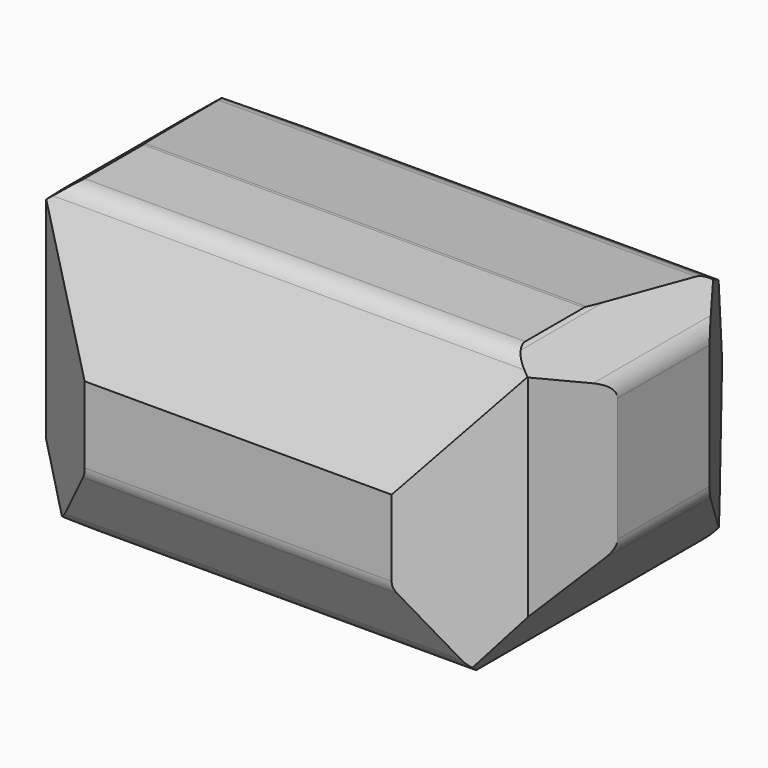
from build123d import *

# Parameters (mm, degrees)
F2_DEPTH = 431.8
F3_DEPTH = 300
F5_DEPTH = 335.3365405362


with BuildPart() as f2:
    # F0 (on Front) → F2 (new body)
    with BuildSketch(Plane.XZ):
        with BuildLine():
            ThreePointArc((-215.0837094315, 28.1867968677), (-206.1825035103, 20.9247569252), (-194.9923256736, 18.3269480476))
            Line((-194.9923256736, 18.3269480476), (194.9923256736, 18.3269480476))
            ThreePointArc((194.9923256736, 18.3269480476), (206.1825035102, 20.9247569252), (215.0837094315, 28.1867968677))
            Line((215.0837094315, 28.1867968677), (291.6494649656, 127.1763085747))
            ThreePointArc((291.6494649656, 127.1763085747), (295.5943158073, 134.5055264169), (296.9580812077, 142.7164597545))
            Line((296.9580812077, 142.7164597545), (296.9580812077, 277.8479019979))
            ThreePointArc((296.9580812077, 277.8479019979), (294.4473832424, 288.8587989806), (287.4116361398, 297.6929214238))
            Line((287.4116361398, 297.6929214238), (243.5007055453, 332.7719674735))
            ThreePointArc((243.5007055453, 332.7719674735), (236.0464513753, 336.8980086564), (227.6471506132, 338.3269480476))
            Line((227.6471506132, 338.3269480476), (-227.6471506132, 338.3269480476))
            ThreePointArc((-227.6471506132, 338.3269480476), (-236.0464513753, 336.8980086564), (-243.5007055453, 332.7719674735))
            Line((-243.5007055453, 332.7719674735), (-283.4954737244, 300.8214190404))
            ThreePointArc((-283.4954737244, 300.8214190404), (-290.531220827, 291.9872965972), (-293.0419187923, 280.9763996145))
            Line((-293.0419187923, 280.9763996145), (-293.0419187923, 128.9765693233))
            Line((-293.0419187923, 128.9765693233), (-215.0837094315, 28.1867968677))
        make_face()
    extrude(amount=-F2_DEPTH)

    # F1 (on Right) → F3 (intersect, symmetric)
    with BuildSketch(Plane.YZ):
        with BuildLine():
            Line((80.3171636678, 15.3355404362), (122.5911080837, 15.3355404362))
            Line((122.5911080837, 15.3355404362), (341.5976184148, 15.3355404362))
            ThreePointArc((341.5976184148, 15.3355404362), (372.7018912202, 25.9713248551), (390.7818199286, 53.4251383399))
            Line((390.7818199286, 53.4251383399), (416.0525164578, 151.2126844043))
            ThreePointArc((416.0525164578, 151.2126844043), (417.5463141348, 167.4416654778), (413.8241006179, 183.3084983287))
            Line((413.8241006179, 183.3084983287), (380.4325761496, 264.1902087694))
            ThreePointArc((380.4325761496, 264.1902087694), (376.4552070388, 270.7729314028), (370.689926132, 275.8634361299))
            Line((370.689926132, 275.8634361299), (308.2217907934, 316.0215231332))
            ThreePointArc((308.2217907934, 316.0215231332), (303.1233559224, 318.542103804), (297.5918843169, 319.8650501107))
            Line((297.5918843169, 319.8650501107), (173.5475734245, 335.1450006882))
            ThreePointArc((173.5475734245, 335.1450006882), (171.9978253303, 335.2878607482), (170.4422370816, 335.3355404362))
            Line((170.4422370816, 335.3355404362), (122.5911080837, 335.3355404362))
            Line((122.5911080837, 335.3355404362), (90.6876511263, 335.3355404362))
            ThreePointArc((90.6876511263, 335.3355404362), (77.9186174286, 331.8925843727), (68.6112547542, 322.4970977928))
            Line((68.6112547542, 322.4970977928), (0, 201.9157707691))
            Line((0, 201.9157707691), (0, 118.9596564464))
            ThreePointArc((0, 118.9596564464), (0.6969994333, 113.0501925959), (2.7497451181, 107.4650510253))
            Line((2.7497451181, 107.4650510253), (34.2183633406, 45.455769505))
            ThreePointArc((34.2183633406, 45.455769505), (37.7343545402, 40.2458859086), (42.421994076, 36.0588682603))
            Line((42.421994076, 36.0588682603), (65.8705395212, 19.8440337704))
            ThreePointArc((65.8705395212, 19.8440337704), (72.7502709538, 16.4888471636), (80.3171636678, 15.3355404362))
        make_face()
    extrude(amount=F3_DEPTH, both=True, mode=Mode.INTERSECT)

    # F4 (on Top) → F5 (intersect, through all)
    with BuildSketch(Plane.XY):
        Polygon((-166.8636798859, 0), (0, 0), (166.8636798859, 0), (262.0607316494, 66.5955841541), (297.6484298706, 145.7781940699), (297.6484298706, 268.555700779), (190.8853650093, 418.9136922359), (0, 418.9136922359), (-190.8853650093, 418.9136922359), (-297.6484298706, 268.555700779), (-297.6484298706, 145.7781940699), (-262.0607316494, 66.5955841541), align=None)
    extrude(amount=F5_DEPTH, mode=Mode.INTERSECT)


solid = f2.part
